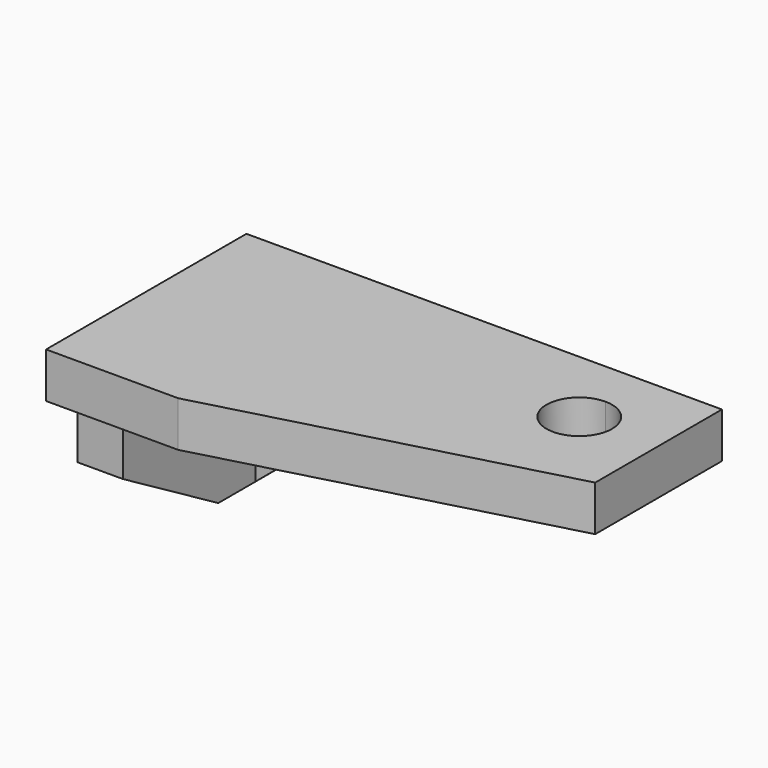
from build123d import *

# Parameters (mm, degrees)
F1_DEPTH = 10.922
F0_W     = 10.922
F0_H     = 33.528
F2_DEPTH = 50.8
F3_DEPTH = 60.198
F5_DEPTH = 10.923
F7_DEPTH = 10.923


with BuildPart() as f1:
    # F0 (on Front) → F1 (new body)
    with BuildSketch(Plane.XZ):
        Polygon((-46.228, -22.225), (-6.35, 11.303), (-46.228, 11.303), align=None)
    extrude(amount=F1_DEPTH)

    # F0 (on Front) → F2 (join)
    with BuildSketch(Plane.XZ):
        with Locations((-51.689, -5.461)):
            Rectangle(F0_W, F0_H)
    extrude(amount=F2_DEPTH)

    # F0 (on Front) → F3 (join)
    with BuildSketch(Plane.XZ):
        Polygon((57.15, 11.303), (57.15, 22.225), (-57.15, 22.225), (-57.15, 11.303), (-46.228, 11.303), (-6.35, 11.303), align=None)
    extrude(amount=F3_DEPTH)

    # F4 (on face) → F5 (cut, through all)
    with BuildSketch(Plane(origin=(0, 0, 11.303), x_dir=(1, 0, 0), z_dir=(0, 0, -1))):
        with BuildLine():
            ThreePointArc((38.1, 11.176), (43.667759, 13.482241), (45.974, 19.05))
            ThreePointArc((45.974, 19.05), (32.532241, 24.617759), (38.1, 11.176))
        make_face()
        Polygon((57.15, 60.198), (-25.4, 60.198), (57.15, 38.078794), align=None)
    extrude(amount=-F5_DEPTH, mode=Mode.SUBTRACT)

    # F6 (on face) → F7 (cut, through all)
    with BuildSketch(Plane.YZ.offset(-46.228)):
        Polygon((-50.8, -5.461), (-50.8, -22.225), (-22.098, -22.225), align=None)
    extrude(amount=-F7_DEPTH, mode=Mode.SUBTRACT)


solid = f1.part
